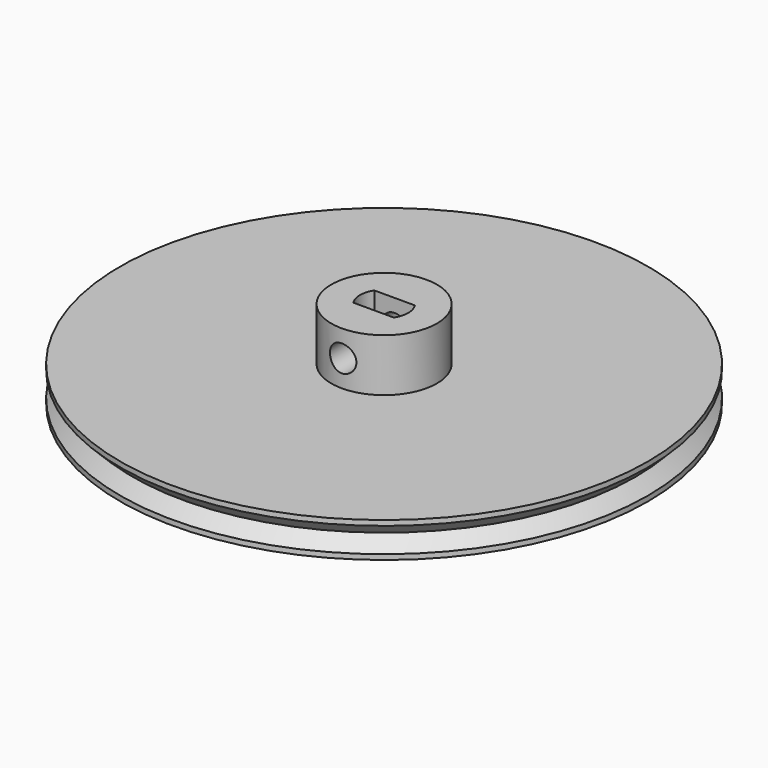
from build123d import *

# Parameters (mm, degrees)
F0_R     = 30
F0_R_2   = 6
F1_DEPTH = 4
F2_DEPTH = 6
F3_R     = 1.5
F4_DEPTH = 12.5
F5_W     = 4.6
F5_H     = 3
F6_DEPTH = 9.4


with BuildPart() as f1:
    # F0 (on Top) → F1 (new body)
    with BuildSketch(Plane.XY):
        Circle(F0_R)
        Circle(F0_R_2, mode=Mode.SUBTRACT)
        Circle(F0_R_2)
    extrude(amount=-F1_DEPTH)

    # F0 (on Top) → F2 (join)
    with BuildSketch(Plane.XY):
        Circle(F0_R_2)
    extrude(amount=F2_DEPTH)

    # F3 (on Front) → F4 (cut, symmetric)
    with BuildSketch(Plane.XZ):
        with Locations((0, 3)):
            Circle(F3_R)
    extrude(amount=F4_DEPTH, both=True, mode=Mode.SUBTRACT)

    # F5 (on face) → F6 (cut)
    with BuildSketch(Plane.XY.offset(6)):
        Rectangle(F5_W, F5_H)
        with BuildLine():
            ThreePointArc((-2.3, 1.5), (-2.7459060435, 0), (-2.3, -1.5))
            Line((-2.3, -1.5), (-2.3, 1.5))
        make_face()
        with BuildLine():
            Line((2.3, 1.5), (2.3, -1.5))
            ThreePointArc((2.3, -1.5), (2.745183651, 0), (2.3, 1.5))
        make_face()
    extrude(amount=-F6_DEPTH, mode=Mode.SUBTRACT)

    # F7 (on Front) → F8 (revolve, cut)
    with BuildSketch(Plane.XZ):
        Polygon((30, -3.4142135624), (30, -0.5857864376), (28.5857864376, -2), align=None)
    revolve(axis=Axis((0, 0, 0.7614716887), (0, 0, -1)), mode=Mode.SUBTRACT)


solid = f1.part
